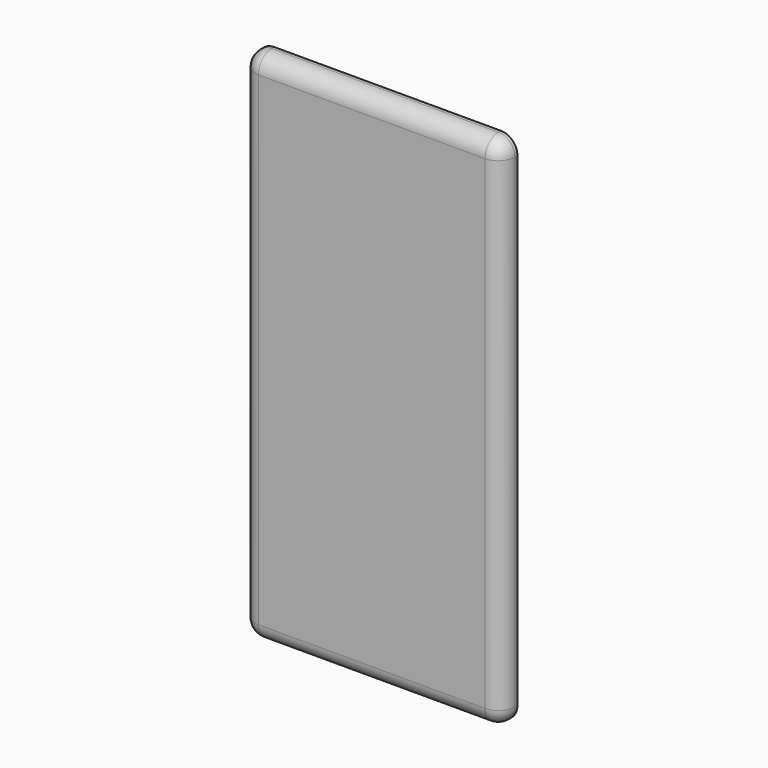
from build123d import *

# Parameters (mm, degrees)
F0_W     = 78.7
F0_H     = 156.7
F0_W_2   = 74.7
F0_H_2   = 152.7
F1_DEPTH = 6
F2_R     = 5
F3_R     = 5


with BuildPart() as f1:
    # F0 (on Front) → F1 (new body)
    with BuildSketch(Plane.XZ):
        with Locations((37.35, 76.35)):
            Rectangle(F0_W, F0_H)
        with Locations((37.35, 76.35)):
            Rectangle(F0_W_2, F0_H_2, mode=Mode.SUBTRACT)
        with Locations((37.35, 76.35)):
            Rectangle(F0_W_2, F0_H_2)
    extrude(amount=F1_DEPTH)

    # F2
    f2_edges = [f1.edges().sort_by_distance(p)[0] for p in [
        (-2, -3, -2),
        (76.7, -3, -2),
        (-2, -3, 154.7),
        (76.7, -3, 154.7),
    ]]
    fillet(f2_edges, radius=F2_R)

    # F3
    f3_edges = [f1.edges().sort_by_distance(p)[0] for p in [
        (37.35, -6, 154.7),
        (75.235534, -6, 153.235534),
        (-0.535534, -6, 153.235534),
        (76.7, -6, 76.35),
        (-2, -6, 76.35),
        (75.235534, -6, -0.535534),
        (-0.535534, -6, -0.535534),
        (37.35, -6, -2),
    ]]
    fillet(f3_edges, radius=F3_R)


solid = f1.part
